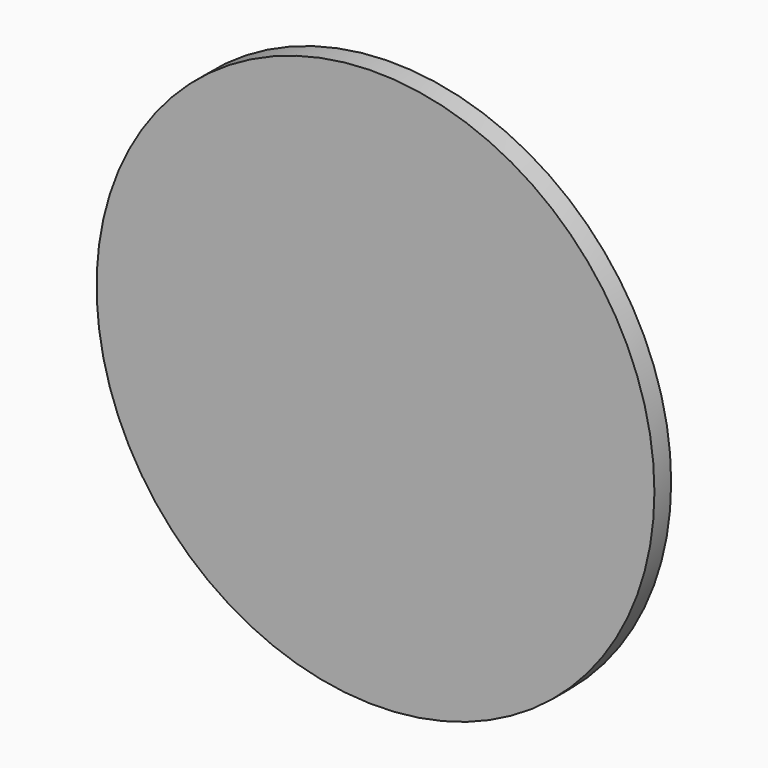
from build123d import *

# Parameters (mm, degrees)
F0_R     = 50.8
F1_DEPTH = 3.81
F3_DEPTH = 0.254
F5_DEPTH = 1.27


with BuildPart() as f1:
    # F0 (on Front) → F1 (new body)
    with BuildSketch(Plane.XZ):
        Circle(F0_R)
    extrude(amount=F1_DEPTH)

    # F2 (on Front) → F3 (join)
    with BuildSketch(Plane.XZ):
        with BuildLine():
            Line((-1.27, -45.836553), (-1.27, 45.836553))
            ThreePointArc((-1.27, 45.836553), (-45.854144, 0), (-1.27, -45.836553))
        make_face()
        with BuildLine():
            ThreePointArc((1.27, -45.836553), (45.854144, 0), (1.27, 45.836553))
            Line((1.27, 45.836553), (1.27, -45.836553))
        make_face()
    extrude(amount=-F3_DEPTH)

    # F4 (on Front) → F5 (join)
    with BuildSketch(Plane.XZ):
        with BuildLine():
            ThreePointArc((-25.400012, 0), (-14.559184, -4.665725), (-5.30214, 2.655456))
            Line((-5.30214, 2.655456), (-28.854879, 23.437285))
            ThreePointArc((-28.854879, 23.437285), (-30.136666, 11.275056), (-25.400012, 0))
        make_face()
        with BuildLine():
            Line((28.854879, 23.437285), (5.30214, 2.655456))
            ThreePointArc((5.30214, 2.655456), (14.559184, -4.665725), (25.400012, 0))
            ThreePointArc((25.400012, 0), (30.136666, 11.275056), (28.854879, 23.437285))
        make_face()
    extrude(amount=-F5_DEPTH)


solid = f1.part
